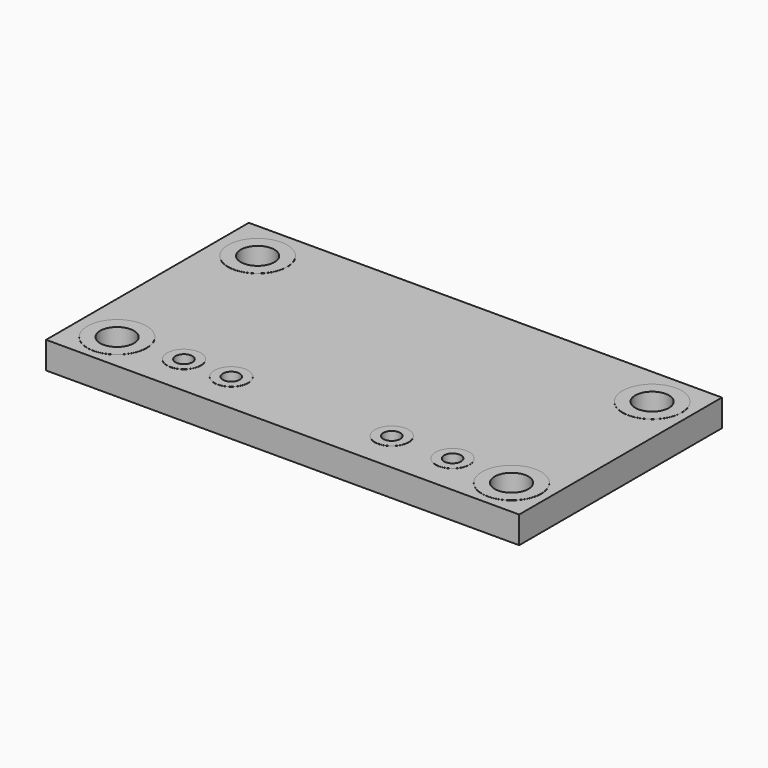
from build123d import *

# Parameters (mm, degrees)
BOX_W         = 28
BOX_H         = 15
BOX_DEPTH     = 1.6
SKETCH_R      = 1.75
SKETCH_R_2    = 1
PAD_DEPTH     = 0.01
SKETCH001_R   = 1
SKETCH001_R_2 = 0.5
POCKET_DEPTH  = 1.611


with BuildPart() as part:
    # Box → Box (new body)
    with BuildSketch(Plane.XY):
        with Locations((14, 7.5)):
            Rectangle(BOX_W, BOX_H)
    extrude(amount=BOX_DEPTH)

    # Sketch → Pad (new body)
    with BuildSketch(Plane.XY.offset(1.6)):
        with Locations((2.4, 2.25)):
            Circle(SKETCH_R)
        with Locations((25.75, 2.25)):
            Circle(SKETCH_R)
        with Locations((2.4, 12.65)):
            Circle(SKETCH_R)
        with Locations((25.75, 12.65)):
            Circle(SKETCH_R)
        with Locations((6.2, 2.45)):
            Circle(SKETCH_R_2)
        with Locations((9, 2.45)):
            Circle(SKETCH_R_2)
        with Locations((18.5, 2.45)):
            Circle(SKETCH_R_2)
        with Locations((22.1, 2.45)):
            Circle(SKETCH_R_2)
    extrude(amount=PAD_DEPTH)

    # Sketch001 → Pocket (cut, through all)
    with BuildSketch(Plane.XY.offset(1.61)):
        with Locations((2.4, 2.25)):
            Circle(SKETCH001_R)
        with Locations((2.4, 12.65)):
            Circle(SKETCH001_R)
        with Locations((25.75, 12.65)):
            Circle(SKETCH001_R)
        with Locations((25.75, 2.25)):
            Circle(SKETCH001_R)
        with Locations((6.2, 2.45)):
            Circle(SKETCH001_R_2)
        with Locations((9, 2.45)):
            Circle(SKETCH001_R_2)
        with Locations((18.5, 2.45)):
            Circle(SKETCH001_R_2)
        with Locations((22.1, 2.45)):
            Circle(SKETCH001_R_2)
    extrude(amount=-POCKET_DEPTH, mode=Mode.SUBTRACT)


solid = part.part
